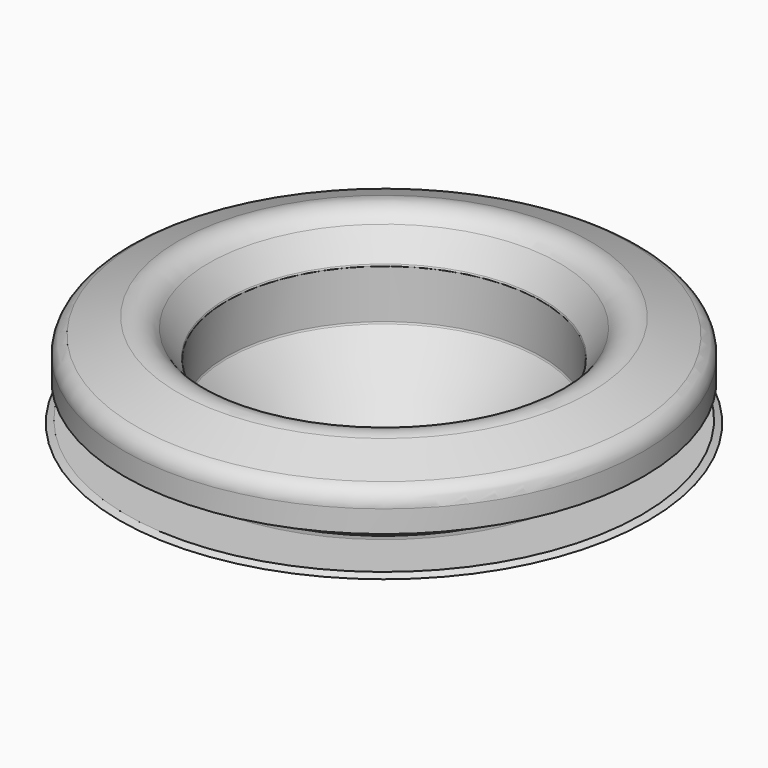
from build123d import *


with BuildPart() as f1:
    # F0 (on Front) → F1 (revolve)
    with BuildSketch(Plane.XZ):
        with BuildLine():
            ThreePointArc((77.345515, 12.003643), (77.283828, 11.871908), (77.262668, 11.727992))
            Line((77.262668, 11.727992), (77.262668, 4.03921))
            ThreePointArc((77.262668, 4.03921), (77.238619, 3.886008), (77.168785, 3.747544))
            Line((77.168785, 3.747544), (69.362668, -7.121733))
            Line((69.362668, -7.121733), (94.062668, 2.878267))
            Line((94.062668, 2.878267), (93.062668, 3.378267))
            Line((93.062668, 3.378267), (84.455651, 3.378267))
            Line((84.455651, 3.378267), (82.592185, 2.933583))
            ThreePointArc((82.592185, 2.933583), (81.397945, 2.170827), (81.862668, 3.509497))
            Line((81.862668, 3.509497), (81.862668, 12.509497))
            ThreePointArc((81.862668, 12.509497), (82.079837, 12.921815), (82.542694, 12.975963))
            Line((82.542694, 12.975963), (93.362668, 8.80016))
            Line((93.362668, 8.80016), (93.362668, 12.293979))
            ThreePointArc((93.362668, 12.293979), (92.836578, 13.990968), (91.442822, 15.092777))
            Line((91.442822, 15.092777), (84.83949, 17.641232))
            ThreePointArc((84.83949, 17.641232), (82.181811, 17.719719), (80.062059, 16.114704))
            Line((80.062059, 16.114704), (77.345515, 12.003643))
        make_face()
    revolve(axis=Axis((52.362668, 0, 8.845666), (0, 0, 1)))


solid = f1.part
